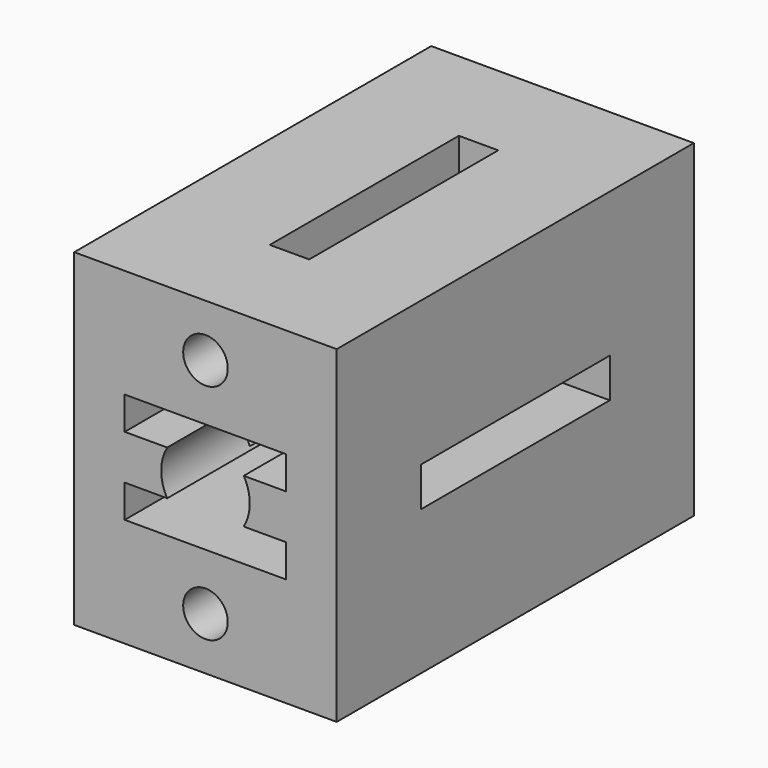
from build123d import *

# Parameters (mm, degrees)
F1_DEPTH = 17
F2_W     = 3
F2_H     = 18
F3_DEPTH = 25.001
F4_W     = 18
F4_H     = 3
F5_DEPTH = 20.001
F7_D     = 3.4
F7_DEPTH = 35
F7_TIP   = 1.0214630523


with BuildPart() as f1:
    # F0 (on Front) → F1 (new body, symmetric)
    with BuildSketch(Plane.XZ):
        with BuildLine():
            Line((-1.1521708115, 1.7021708115), (-1.1521708115, 4.2021708115))
            Line((-1.1521708115, 4.2021708115), (5, 4.2021708115))
            Line((5, 4.2021708115), (5, 12.5))
            Line((5, 12.5), (-5, 12.5))
            Line((-5, 12.5), (-5, -12.5))
            Line((-5, -12.5), (5, -12.5))
            Line((5, -12.5), (5, -4.2021708115))
            Line((5, -4.2021708115), (-1.1521708115, -4.2021708115))
            Line((-1.1521708115, -4.2021708115), (-1.1521708115, -1.7021708115))
            Line((-1.1521708115, -1.7021708115), (2.0856836945, -1.7021708115))
            ThreePointArc((2.0856836945, -1.7021708115), (1.625, 0), (2.0856836945, 1.7021708115))
            Line((2.0856836945, 1.7021708115), (-1.1521708115, 1.7021708115))
        make_face()
        with BuildLine():
            Line((5, 12.5), (5, 4.2021708115))
            Line((5, 4.2021708115), (11.1521708115, 4.2021708115))
            Line((11.1521708115, 4.2021708115), (11.1521708115, 1.7021708115))
            Line((11.1521708115, 1.7021708115), (7.9143163055, 1.7021708115))
            ThreePointArc((7.9143163055, 1.7021708115), (8.375, 0), (7.9143163055, -1.7021708115))
            Line((7.9143163055, -1.7021708115), (11.1521708115, -1.7021708115))
            Line((11.1521708115, -1.7021708115), (11.1521708115, -4.2021708115))
            Line((11.1521708115, -4.2021708115), (5, -4.2021708115))
            Line((5, -4.2021708115), (5, -12.5))
            Line((5, -12.5), (15, -12.5))
            Line((15, -12.5), (15, 12.5))
            Line((15, 12.5), (5, 12.5))
        make_face()
    extrude(amount=F1_DEPTH, both=True)

    # F2 (on face) → F3 (cut, through all)
    with BuildSketch(Plane.XY.offset(12.5)):
        with Locations((5, 0)):
            Rectangle(F2_W, F2_H)
    extrude(amount=-F3_DEPTH, mode=Mode.SUBTRACT)

    # F4 (on face) → F5 (cut, through all)
    with BuildSketch(Plane.YZ.offset(15)):
        Rectangle(F4_W, F4_H)
    extrude(amount=-F5_DEPTH, mode=Mode.SUBTRACT)

    # F7
    with Locations(Plane.XZ.offset(17)):
        with Locations((5, 8.5), (5, -8.5)):
            Hole(F7_D / 2, depth=F7_DEPTH)
            with Locations((0, 0, -(F7_DEPTH + F7_TIP / 2))):  # 118° drill point
                Cone(0, F7_D / 2, F7_TIP, mode=Mode.SUBTRACT)


solid = f1.part
